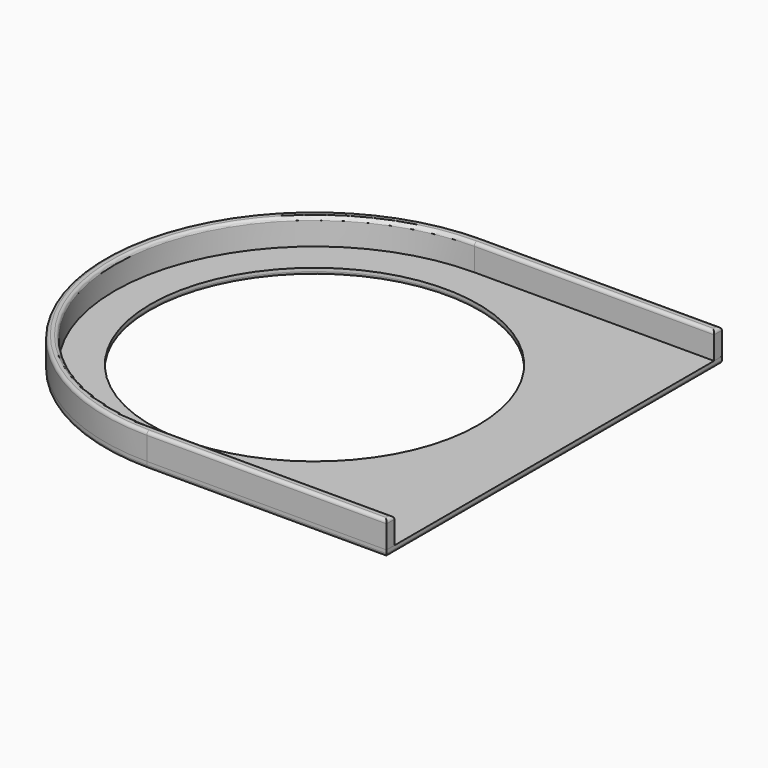
from build123d import *

# Parameters (mm, degrees)
PAD001_DEPTH = 8
FILLET_R     = 1
SKETCH001_R  = 50
PAD_DEPTH    = 2
FILLET001_R  = 1


with BuildPart() as obj1:
    # Sketch002 → Pad001 (new body)
    with BuildSketch(Plane.XY):
        with BuildLine():
            Line((73.202, 64), (0, 64))
            ThreePointArc((0, 64), (-63.999997, 0), (0, -64))
            Line((73.202, -64), (0, -64))
            Line((73.202, -61), (73.202, -64))
            Line((0, -61), (73.202, -61))
            ThreePointArc((0, 61), (-61.000074, 0), (0, -61))
            Line((0, 61), (73.202, 61))
            Line((73.202, 64), (73.202, 61))
        make_face()
    extrude(amount=PAD001_DEPTH)

    # Fillet
    fillet_edges = [obj1.edges().sort_by_distance(p)[0] for p in [
        (36.601, 64, 8),
        (-63.999997, 0, 8),
        (36.601, -64, 8),
        (73.202, -62.5, 8),
        (36.601, -61, 8),
        (-61.000074, 0, 8),
        (36.601, 61, 8),
        (73.202, 62.5, 8),
    ]]
    fillet(fillet_edges, radius=FILLET_R)


with BuildPart() as fillet_face:
    # Sketch001 → Pad (new body)
    with BuildSketch(Plane.XY):
        with BuildLine():
            Line((73.207341, 64), (0, 64))
            ThreePointArc((0, 64), (-64.000001, 0), (0, -64))
            Line((73.207341, -64), (0, -64))
            Line((73.207341, 64), (73.207341, -64))
        make_face()
        Circle(SKETCH001_R, mode=Mode.SUBTRACT)
    extrude(amount=-PAD_DEPTH)

    # Fillet001
    fillet001_edges = [fillet_face.edges().sort_by_distance(p)[0] for p in [
        (36.603671, 64, -2),
        (-64.000001, 0, -2),
        (36.603671, -64, -2),
        (73.207341, 0, -2),
        (-50, 0, -2),
    ]]
    fillet(fillet001_edges, radius=FILLET001_R)


solid = Compound([obj1.part, fillet_face.part])
